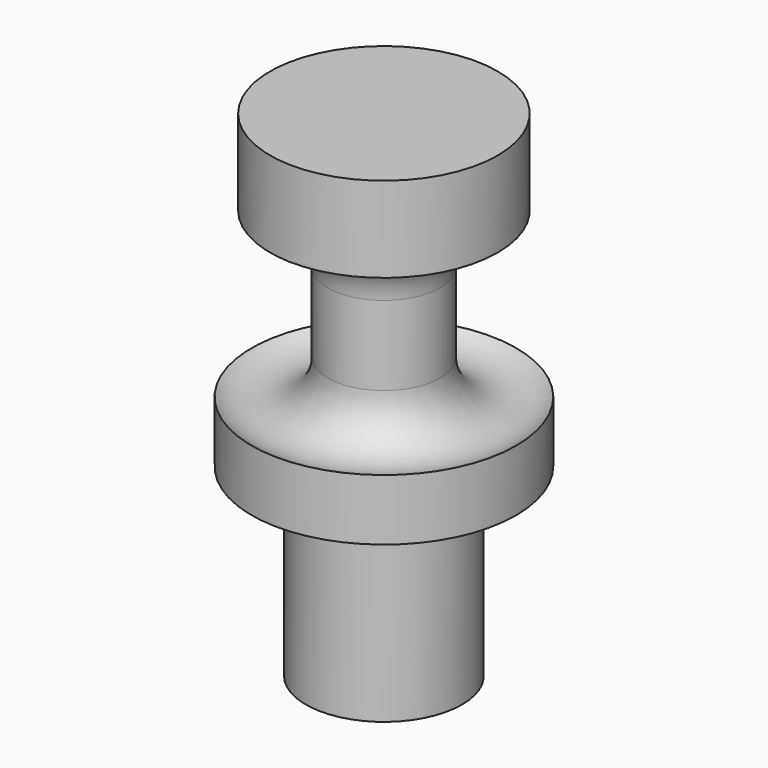
from build123d import *


with BuildPart() as f1:
    # F0 (on Front) → F1 (revolve)
    with BuildSketch(Plane.XZ):
        with BuildLine():
            Line((0, 41.611075), (0, 0))
            Line((0, 0), (0, -24.678018))
            Line((0, -24.678018), (10.449486, -24.678018))
            Line((10.449486, -24.678018), (10.449486, 0))
            Line((10.449486, 0), (17.70802, 0))
            Line((17.70802, 0), (17.70802, 8.199587))
            ThreePointArc((17.70802, 8.199587), (11.130845, 7.271817), (7.544719, 12.862854))
            Line((7.544719, 12.862854), (7.544719, 23.48838))
            ThreePointArc((7.544719, 23.48838), (9.871929, 28.583197), (15.246582, 30.159958))
            Line((15.246582, 30.159958), (15.246582, 41.611075))
            Line((15.246582, 41.611075), (0, 41.611075))
        make_face()
    revolve(axis=Axis((0, 0, 20.805538), (0, 0, 1)))


solid = f1.part
